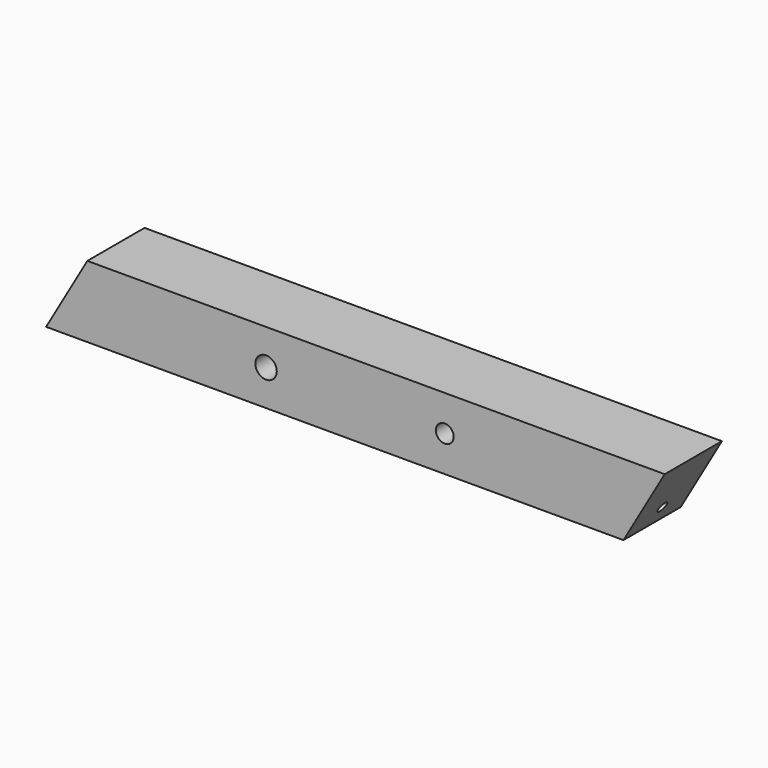
from build123d import *

# Parameters (mm, degrees)
F0_R     = 1.5
F0_R_2   = 1.25
F1_DEPTH = 5
F3_D     = 1.5
F3_DEPTH = 5
F3_TIP   = 0.4506454643


with BuildPart() as f1:
    # F0 (on Front) → F1 (new body, symmetric)
    with BuildSketch(Plane.XZ):
        Polygon((35.7166262344, -3.072109893), (-39.2833737656, -3.072109893), (-45.0568764575, -13.072109893), (-39.2833737656, -13.072109893), (35.7166262344, -13.072109893), (41.4901289262, -3.072109893), align=None)
        with Locations((-14.2833737656, -8.072109893)):
            Circle(F0_R, mode=Mode.SUBTRACT)
        with Locations((10.7166262344, -8.072109893)):
            Circle(F0_R_2, mode=Mode.SUBTRACT)
    extrude(amount=F1_DEPTH, both=True)

    # F3
    with Locations(Plane(origin=(32.4478592999, 0, -18.7337803015), x_dir=(0, 1, 0), z_dir=(0.8660254038, 0, -0.5))):
        with Locations((0, 9.4242852148)):
            Hole(F3_D / 2, depth=F3_DEPTH)
            with Locations((0, 0, -(F3_DEPTH + F3_TIP / 2))):  # 118° drill point
                Cone(0, F3_D / 2, F3_TIP, mode=Mode.SUBTRACT)


solid = f1.part
